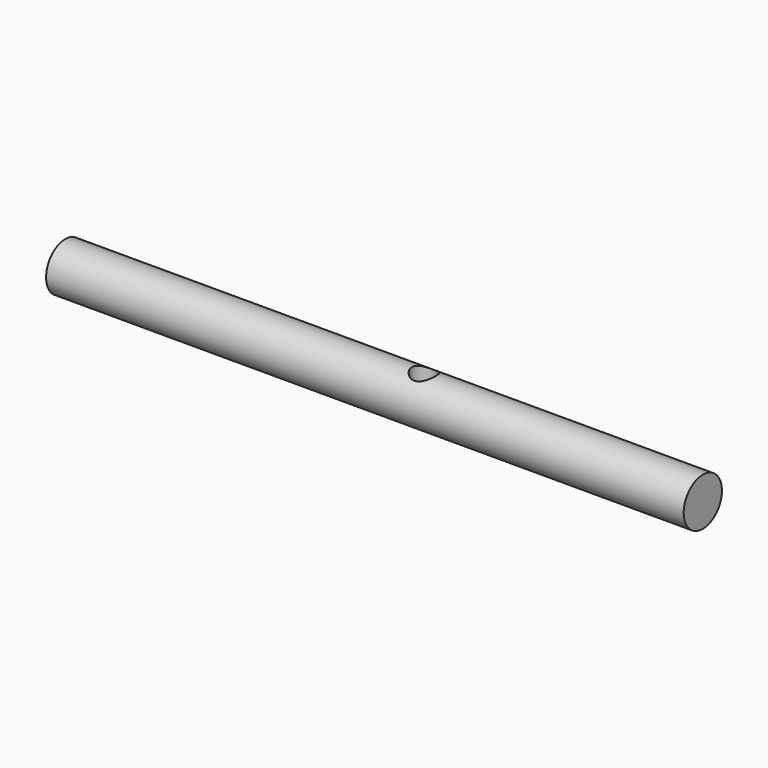
from build123d import *

# Parameters (mm, degrees)
F0_W     = 700
F0_H     = 30
F0_W_2   = 100
F4_D     = 30
F4_DEPTH = 30
F4_TIP   = 9.0129092854


with BuildPart() as f1:
    # F0 (on Front) → F1 (revolve)
    with BuildSketch(Plane.XZ):
        with Locations((50, 15)):
            Rectangle(F0_W, F0_H)
        with Locations((-350, 15)):
            Rectangle(F0_W_2, F0_H)
    revolve(axis=Axis((0, 0, 0), (1, 0, 0)))

    # F4
    with Locations(Plane.XY.offset(30)):
        with Locations((50, 0)):
            Hole(F4_D / 2, depth=F4_DEPTH)
            with Locations((0, 0, -(F4_DEPTH + F4_TIP / 2))):  # 118° drill point
                Cone(0, F4_D / 2, F4_TIP, mode=Mode.SUBTRACT)


solid = f1.part
